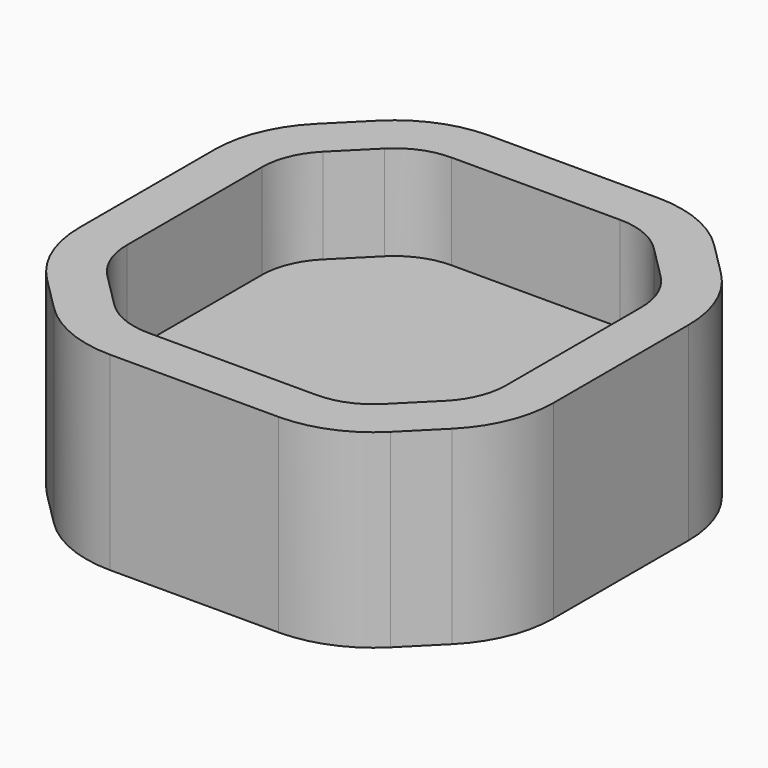
from build123d import *

# Parameters (mm, degrees)
F1_DEPTH = 25.4
F2_DEPTH = 50.8


with BuildPart() as f1:
    # F0 (on Top) → F1 (new body)
    with BuildSketch(Plane.XY):
        with BuildLine():
            Line((-22.589232, -50.8), (0, -50.8))
            Line((0, -50.8), (22.589232, -50.8))
            ThreePointArc((22.589232, -50.8), (29.879351, -49.349905), (36.059616, -45.220384))
            Line((36.059616, -45.220384), (45.220384, -36.059616))
            ThreePointArc((45.220384, -36.059616), (49.349905, -29.879351), (50.8, -22.589232))
            Line((50.8, -22.589232), (50.8, 0))
            Line((50.8, 0), (50.8, 22.589232))
            ThreePointArc((50.8, 22.589232), (49.349905, 29.879351), (45.220384, 36.059616))
            Line((45.220384, 36.059616), (36.059616, 45.220384))
            ThreePointArc((36.059616, 45.220384), (29.879351, 49.349905), (22.589232, 50.8))
            Line((22.589232, 50.8), (0, 50.8))
            Line((0, 50.8), (-22.589232, 50.8))
            ThreePointArc((-22.589232, 50.8), (-29.879351, 49.349905), (-36.059616, 45.220384))
            Line((-36.059616, 45.220384), (-45.220384, 36.059616))
            ThreePointArc((-45.220384, 36.059616), (-49.349905, 29.879351), (-50.8, 22.589232))
            Line((-50.8, 22.589232), (-50.8, 0))
            Line((-50.8, 0), (-50.8, -22.589232))
            ThreePointArc((-50.8, -22.589232), (-49.349905, -29.879351), (-45.220384, -36.059616))
            Line((-45.220384, -36.059616), (-36.059616, -45.220384))
            ThreePointArc((-36.059616, -45.220384), (-29.879351, -49.349905), (-22.589232, -50.8))
        make_face()
    extrude(amount=F1_DEPTH)

    # F0 (on Top) → F2 (join)
    with BuildSketch(Plane.XY):
        with BuildLine():
            ThreePointArc((54.20064, -45.039872), (61.083175, -34.739431), (63.5, -22.589232))
            Line((63.5, -22.589232), (63.5, 0))
            Line((63.5, 0), (63.5, 22.589232))
            ThreePointArc((63.5, 22.589232), (61.083175, 34.739431), (54.20064, 45.039872))
            Line((54.20064, 45.039872), (45.039872, 54.20064))
            ThreePointArc((45.039872, 54.20064), (34.739431, 61.083175), (22.589232, 63.5))
            Line((22.589232, 63.5), (0, 63.5))
            Line((0, 63.5), (-22.589232, 63.5))
            ThreePointArc((-22.589232, 63.5), (-34.739431, 61.083175), (-45.039872, 54.20064))
            Line((-45.039872, 54.20064), (-54.20064, 45.039872))
            ThreePointArc((-54.20064, 45.039872), (-61.083175, 34.739431), (-63.5, 22.589232))
            Line((-63.5, 22.589232), (-63.5, 0))
            Line((-63.5, 0), (-63.5, -22.589232))
            ThreePointArc((-63.5, -22.589232), (-61.083175, -34.739431), (-54.20064, -45.039872))
            Line((-54.20064, -45.039872), (-45.039872, -54.20064))
            ThreePointArc((-45.039872, -54.20064), (-34.739431, -61.083175), (-22.589232, -63.5))
            Line((-22.589232, -63.5), (0, -63.5))
            Line((0, -63.5), (22.589232, -63.5))
            ThreePointArc((22.589232, -63.5), (34.739431, -61.083175), (45.039872, -54.20064))
            Line((45.039872, -54.20064), (54.20064, -45.039872))
        make_face()
        with BuildLine():
            Line((22.589232, -50.8), (0, -50.8))
            Line((0, -50.8), (-22.589232, -50.8))
            ThreePointArc((-22.589232, -50.8), (-29.879351, -49.349905), (-36.059616, -45.220384))
            Line((-36.059616, -45.220384), (-45.220384, -36.059616))
            ThreePointArc((-45.220384, -36.059616), (-49.349905, -29.879351), (-50.8, -22.589232))
            Line((-50.8, -22.589232), (-50.8, 0))
            Line((-50.8, 0), (-50.8, 22.589232))
            ThreePointArc((-50.8, 22.589232), (-49.349905, 29.879351), (-45.220384, 36.059616))
            Line((-45.220384, 36.059616), (-36.059616, 45.220384))
            ThreePointArc((-36.059616, 45.220384), (-29.879351, 49.349905), (-22.589232, 50.8))
            Line((-22.589232, 50.8), (0, 50.8))
            Line((0, 50.8), (22.589232, 50.8))
            ThreePointArc((22.589232, 50.8), (29.879351, 49.349905), (36.059616, 45.220384))
            Line((36.059616, 45.220384), (45.220384, 36.059616))
            ThreePointArc((45.220384, 36.059616), (49.349905, 29.879351), (50.8, 22.589232))
            Line((50.8, 22.589232), (50.8, 0))
            Line((50.8, 0), (50.8, -22.589232))
            ThreePointArc((50.8, -22.589232), (49.349905, -29.879351), (45.220384, -36.059616))
            Line((45.220384, -36.059616), (36.059616, -45.220384))
            ThreePointArc((36.059616, -45.220384), (29.879351, -49.349905), (22.589232, -50.8))
        make_face(mode=Mode.SUBTRACT)
    extrude(amount=F2_DEPTH)


solid = f1.part
